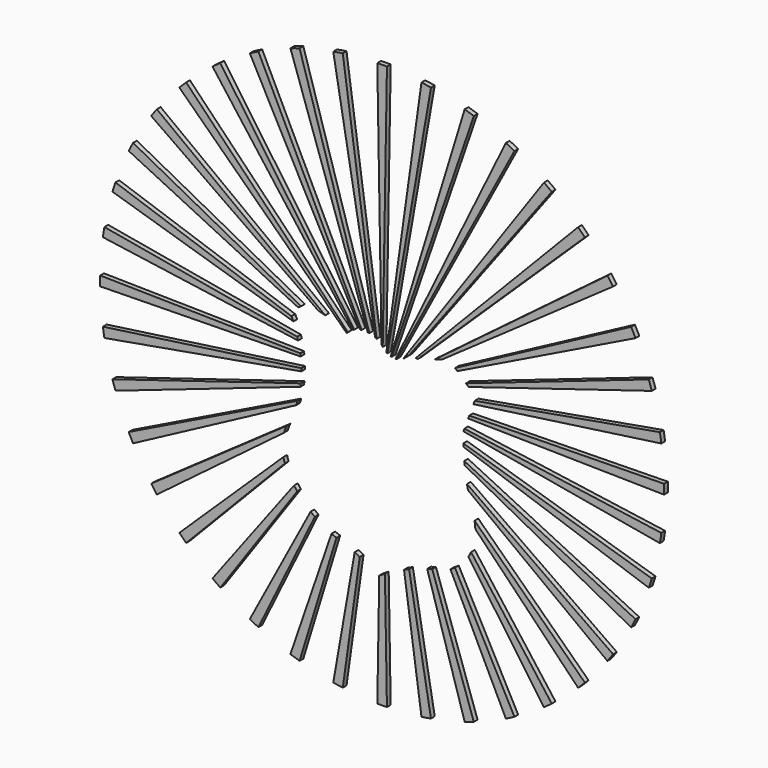
from build123d import *

# Parameters (mm, degrees)
F1_DEPTH = 0.65
F2_SCALE = 2.7


with BuildPart() as f1:
    # F0 (on Front) → F1 (new body)
    with BuildSketch(Plane.XZ):
        with BuildLine():
            Line((14.0996856562, 7.8006339884), (40.1003718647, 11.465391754))
            ThreePointArc((40.1003718647, 11.465391754), (40.0018864205, 12.1234734521), (39.8921932156, 12.7797800153))
            Line((39.8921932156, 12.7797800153), (14.2753890142, 8.2734041905))
            Line((14.2753890142, 8.2734041905), (14.0996856562, 7.8006339884))
        make_face()
    extrude(amount=F1_DEPTH)


with BuildPart() as f1b:
    # F0 (on Front) → F1, piece 2 (new body)
    with BuildSketch(Plane.XZ):
        with BuildLine():
            Line((13.419350539, 9.6801756283), (38.7727556348, 17.4425731134))
            ThreePointArc((38.7727556348, 17.4425731134), (38.5725360514, 18.077146216), (38.3615243857, 18.7082127585))
            Line((38.3615243857, 18.7082127585), (13.0601193568, 10.0075521461))
            Line((13.0601193568, 10.0075521461), (13.419350539, 9.6801756283))
        make_face()
    extrude(amount=F1_DEPTH)


with BuildPart() as f1c:
    # F0 (on Front) → F1, piece 3 (new body)
    with BuildSketch(Plane.XZ):
        with BuildLine():
            Line((11.8640080995, 11.097598773), (36.5264473952, 23.138480517))
            ThreePointArc((36.5264473952, 23.138480517), (36.2294237434, 23.7339197282), (35.9222894245, 24.3242072974))
            Line((35.9222894245, 24.3242072974), (11.5541847858, 11.3799486429))
            Line((11.5541847858, 11.3799486429), (11.8640080995, 11.097598773))
        make_face()
    extrude(amount=F1_DEPTH)


with BuildPart() as f1d:
    # F0 (on Front) → F1, piece 4 (new body)
    with BuildSketch(Plane.XZ):
        with BuildLine():
            Line((9.6875365964, 11.783341185), (33.4167587101, 28.4128618208))
            ThreePointArc((33.4167587101, 28.4128618208), (33.0302446977, 28.9545054513), (32.6345503919, 29.489479208))
            Line((32.6345503919, 29.489479208), (8.6803311777, 11.4536889214))
            Line((8.6803311777, 11.4536889214), (9.6875365964, 11.783341185))
        make_face()
    extrude(amount=F1_DEPTH)


with BuildPart() as f1e:
    # F0 (on Front) → F1, piece 5 (new body)
    with BuildSketch(Plane.XZ):
        with BuildLine():
            Line((6.4331524853, 10.823040759), (29.5202604351, 33.1358442526))
            ThreePointArc((29.5202604351, 33.1358442526), (29.0537733201, 33.6103552384), (28.5792623344, 34.0768423534))
            Line((28.5792623344, 34.0768423534), (6.1017375338, 10.8192968969))
            Line((6.1017375338, 10.8192968969), (6.4331524853, 10.823040759))
        make_face()
    extrude(amount=F1_DEPTH)


with BuildPart() as f1f:
    # F0 (on Front) → F1, piece 6 (new body)
    with BuildSketch(Plane.XZ):
        with BuildLine():
            Line((5.1551717195, 10.8086039218), (24.9328929258, 37.1911355959))
            ThreePointArc((24.9328929258, 37.1911355959), (24.3979213233, 37.5868282214), (23.8562799026, 37.9733406283))
            Line((23.8562799026, 37.9733406283), (4.370683766, 10.1686883555))
            ThreePointArc((4.370683766, 10.1686883555), (4.7232209064, 10.4533298944), (5.0065471561, 10.8069249695))
            Line((5.0065471561, 10.8069249695), (5.1187707299, 10.8081927143))
            Line((5.1187707299, 10.8081927143), (5.1551717195, 10.8086039218))
        make_face()
    extrude(amount=F1_DEPTH)


with BuildPart() as f1g:
    # F0 (on Front) → F1, piece 7 (new body)
    with BuildSketch(Plane.XZ):
        with BuildLine():
            Line((3.4985828485, 9.8517229411), (19.7676253791, 40.4788713427))
            ThreePointArc((19.7676253791, 40.4788713427), (19.17733781, 40.7860056616), (18.5818985987, 41.0830293135))
            Line((18.5818985987, 41.0830293135), (3.3267720116, 9.8370922299))
            ThreePointArc((3.3267720116, 9.8370922299), (3.4128275589, 9.8426445983), (3.4985828485, 9.8517229411))
        make_face()
    extrude(amount=F1_DEPTH)


with BuildPart() as f1h:
    # F0 (on Front) → F1, piece 8 (new body)
    with BuildSketch(Plane.XZ):
        with BuildLine():
            Line((2.791275687, 9.8823450197), (14.1516308402, 42.918106304))
            ThreePointArc((14.1516308402, 42.918106304), (13.5205642977, 43.1291179696), (12.8859911951, 43.329337553))
            Line((12.8859911951, 43.329337553), (2.655985343, 9.9162737412))
            ThreePointArc((2.655985343, 9.9162737412), (2.7233489395, 9.8981866017), (2.791275687, 9.8823450197))
        make_face()
    extrude(amount=F1_DEPTH)


with BuildPart() as f1i:
    # F0 (on Front) → F1, piece 9 (new body)
    with BuildSketch(Plane.XZ):
        with BuildLine():
            Line((2.1836739638, 10.116683625), (8.223198097, 44.4487751338))
            ThreePointArc((8.223198097, 44.4487751338), (7.5668915339, 44.5584683388), (6.9088098358, 44.656953783))
            Line((6.9088098358, 44.656953783), (2.0520581395, 10.1993211305))
            ThreePointArc((2.0520581395, 10.1993211305), (2.1171018718, 10.156785277), (2.1836739638, 10.116683625))
        make_face()
    extrude(amount=F1_DEPTH)


with BuildPart() as f1j:
    # F0 (on Front) → F1, piece 10 (new body)
    with BuildSketch(Plane.XZ):
        with BuildLine():
            Line((1.5425779768, 10.6901751083), (2.128304839, 45.0331876857))
            ThreePointArc((2.128304839, 45.0331876857), (1.4629187009, 45.0388614191), (0.7975325627, 45.0331876857))
            Line((0.7975325627, 45.0331876857), (1.3798589971, 10.8895529183))
            ThreePointArc((1.3798589971, 10.8895529183), (1.4215379159, 10.8485968834), (1.4625010782, 10.8069249695))
            ThreePointArc((1.4625010782, 10.8069249695), (1.5015560703, 10.7478755011), (1.5425779768, 10.6901751083))
        make_face()
    extrude(amount=F1_DEPTH)


with BuildPart() as f1k:
    # F0 (on Front) → F1, piece 11 (new body)
    with BuildSketch(Plane.XZ):
        with BuildLine():
            Line((0.7052964066, 11.3946715853), (-3.982972434, 44.656953783))
            ThreePointArc((-3.982972434, 44.656953783), (-4.6410541321, 44.5584683388), (-5.2973606953, 44.4487751338))
            Line((-5.2973606953, 44.4487751338), (0.4982535981, 11.5032059334))
            ThreePointArc((0.4982535981, 11.5032059334), (0.6027155377, 11.450732948), (0.7052964066, 11.3946715853))
        make_face()
    extrude(amount=F1_DEPTH)


with BuildPart() as f1l:
    # F0 (on Front) → F1, piece 12 (new body)
    with BuildSketch(Plane.XZ):
        with BuildLine():
            Line((-0.2976953227, 11.7699869402), (-9.9601537934, 43.329337553))
            ThreePointArc((-9.9601537934, 43.329337553), (-10.594726896, 43.1291179696), (-11.2257934384, 42.918106304))
            Line((-11.2257934384, 42.918106304), (-0.5276547295, 11.8080616085))
            ThreePointArc((-0.5276547295, 11.8080616085), (-0.4123460333, 11.7910112904), (-0.2976953227, 11.7699869402))
        make_face()
    extrude(amount=F1_DEPTH)


with BuildPart() as f1m:
    # F0 (on Front) → F1, piece 13 (new body)
    with BuildSketch(Plane.XZ):
        with BuildLine():
            Line((-1.3652721358, 11.8122728022), (-15.6560611969, 41.0830293135))
            ThreePointArc((-15.6560611969, 41.0830293135), (-16.2515004082, 40.7860056616), (-16.8417879773, 40.4788713427))
            Line((-16.8417879773, 40.4788713427), (-1.5952263604, 11.7765857364))
            ThreePointArc((-1.5952263604, 11.7765857364), (-1.4805571029, 11.7964129719), (-1.3652721358, 11.8122728022))
        make_face()
    extrude(amount=F1_DEPTH)


with BuildPart() as f1n:
    # F0 (on Front) → F1, piece 14 (new body)
    with BuildSketch(Plane.XZ):
        with BuildLine():
            Line((-2.3912446793, 11.5191359311), (-20.9304425008, 37.9733406283))
            ThreePointArc((-20.9304425008, 37.9733406283), (-21.4720861312, 37.586826616), (-22.007059888, 37.1911323101))
            Line((-22.007059888, 37.1911323101), (-2.5983724683, 11.4135009603))
            ThreePointArc((-2.5983724683, 11.4135009603), (-2.4957190615, 11.4681037191), (-2.3912446793, 11.5191359311))
        make_face()
    extrude(amount=F1_DEPTH)


with BuildPart() as f1o:
    # F0 (on Front) → F1, piece 15 (new body)
    with BuildSketch(Plane.XZ):
        with BuildLine():
            Line((-3.273840696, 10.9206362187), (-25.6534249326, 34.0768423534))
            ThreePointArc((-25.6534249326, 34.0768423534), (-26.1279359183, 33.6103552384), (-26.5944230334, 33.1358442526))
            Line((-26.5944230334, 33.1358442526), (-3.4375991948, 10.7556630289))
            ThreePointArc((-3.4375991948, 10.7556630289), (-3.3571415162, 10.8395607277), (-3.273840696, 10.9206362187))
        make_face()
    extrude(amount=F1_DEPTH)


with BuildPart() as f1p:
    # F0 (on Front) → F1, piece 16 (new body)
    with BuildSketch(Plane.XZ):
        with BuildLine():
            Line((-6.4095905739, 11.946929313), (-29.7087129901, 29.489479208))
            ThreePointArc((-29.7087129901, 29.489479208), (-30.104407296, 28.9545054513), (-30.4909213083, 28.4128618208))
            Line((-30.4909213083, 28.4128618208), (-7.3758312724, 12.2137270616))
            Line((-7.3758312724, 12.2137270616), (-6.4095905739, 11.946929313))
        make_face()
    extrude(amount=F1_DEPTH)


with BuildPart() as f1q:
    # F0 (on Front) → F1, piece 17 (new body)
    with BuildSketch(Plane.XZ):
        with BuildLine():
            Line((-9.7439662708, 11.9725618004), (-32.9964520227, 24.3242072974))
            ThreePointArc((-32.9964520227, 24.3242072974), (-33.3035863416, 23.7339197282), (-33.6006099934, 23.138480517))
            Line((-33.6006099934, 23.138480517), (-10.1638882825, 11.696027838))
            Line((-10.1638882825, 11.696027838), (-9.7439662708, 11.9725618004))
        make_face()
    extrude(amount=F1_DEPTH)


with BuildPart() as f1r:
    # F0 (on Front) → F1, piece 18 (new body)
    with BuildSketch(Plane.XZ):
        with BuildLine():
            Line((-11.0898364476, 10.336148733), (-35.4356869839, 18.7082127585))
            ThreePointArc((-35.4356869839, 18.7082127585), (-35.6466986496, 18.077146216), (-35.846918233, 17.4425731134))
            Line((-35.846918233, 17.4425731134), (-10.8184667626, 9.7796659806))
            ThreePointArc((-10.8184667626, 9.7796659806), (-10.9476069211, 10.0610988821), (-11.0898364476, 10.336148733))
        make_face()
    extrude(amount=F1_DEPTH)


with BuildPart() as f1s:
    # F0 (on Front) → F1, piece 19 (new body)
    with BuildSketch(Plane.XZ):
        with BuildLine():
            Line((-9.872146129, 6.2128223885), (-37.5507683657, 6.6848867573))
            ThreePointArc((-37.5507683657, 6.6848867573), (-37.5564420991, 6.0195006191), (-37.5507683657, 5.354114481))
            Line((-37.5507683657, 5.354114481), (-9.8197574693, 5.8270723487))
            ThreePointArc((-9.8197574693, 5.8270723487), (-9.8379869171, 5.9706077344), (-9.8576853839, 6.1139489012))
            ThreePointArc((-9.8576853839, 6.1139489012), (-9.8648283407, 6.1633984299), (-9.872146129, 6.2128223885))
        make_face()
    extrude(amount=F1_DEPTH)


with BuildPart() as f1t:
    # F0 (on Front) → F1, piece 20 (new body)
    with BuildSketch(Plane.XZ):
        with BuildLine():
            ThreePointArc((-37.1745344629, 0.5736094843), (-37.0760490187, -0.0844722138), (-36.9663558138, -0.740778777))
            Line((-36.9663558138, -0.740778777), (-9.7162625791, 4.0529168148))
            ThreePointArc((-9.7162625791, 4.0529168148), (-9.7165431301, 4.2296809017), (-9.7190352419, 4.4064276429))
            ThreePointArc((-9.7190352419, 4.4064276429), (-9.7194226929, 4.424868257), (-9.7198342189, 4.4433083497))
            Line((-9.7198342189, 4.4433083497), (-37.1745344629, 0.5736094843))
        make_face()
    extrude(amount=F1_DEPTH)


with BuildPart() as f1u:
    # F0 (on Front) → F1, piece 21 (new body)
    with BuildSketch(Plane.XZ):
        with BuildLine():
            ThreePointArc((-35.846918233, -5.4035718751), (-35.6466986496, -6.0381449777), (-35.4356869839, -6.6692115202))
            Line((-35.4356869839, -6.6692115202), (-9.8572714573, 2.1267076094))
            ThreePointArc((-9.8572714573, 2.1267076094), (-9.8367140484, 2.2767980553), (-9.8177672024, 2.4271003042))
            ThreePointArc((-9.8177672024, 2.4271003042), (-9.8092903216, 2.4989266119), (-9.801181251, 2.5707953739))
            Line((-9.801181251, 2.5707953739), (-35.846918233, -5.4035718751))
        make_face()
    extrude(amount=F1_DEPTH)


with BuildPart() as f1v:
    # F0 (on Front) → F1, piece 22 (new body)
    with BuildSketch(Plane.XZ):
        with BuildLine():
            ThreePointArc((-33.6006099934, -11.0994792787), (-33.3035863416, -11.69491849), (-32.9964520227, -12.2852060591))
            Line((-32.9964520227, -12.2852060591), (-10.4230779552, -0.2943025003))
            ThreePointArc((-10.4230779552, -0.2943025003), (-10.3818847157, -0.167001542), (-10.3418989304, -0.0393161711))
            ThreePointArc((-10.3418989304, -0.0393161711), (-10.2900857507, 0.1328120896), (-10.2404668118, 0.3055856542))
            Line((-10.2404668118, 0.3055856542), (-33.6006099934, -11.0994792787))
        make_face()
    extrude(amount=F1_DEPTH)


with BuildPart() as f1w:
    # F0 (on Front) → F1, piece 23 (new body)
    with BuildSketch(Plane.XZ):
        with BuildLine():
            ThreePointArc((-30.4909213083, -16.3738605826), (-30.104407296, -16.915504213), (-29.7087129901, -17.4504779697))
            Line((-29.7087129901, -17.4504779697), (-12.1121518011, -4.2015432192))
            ThreePointArc((-12.1121518011, -4.2015432192), (-11.9571086891, -3.7184800759), (-11.7634296193, -3.2495698659))
            Line((-11.7634296193, -3.2495698659), (-30.4909213083, -16.3738605826))
        make_face()
    extrude(amount=F1_DEPTH)


with BuildPart() as f1x:
    # F0 (on Front) → F1, piece 24 (new body)
    with BuildSketch(Plane.XZ):
        with BuildLine():
            ThreePointArc((-26.5944230334, -21.0968430143), (-26.1279359183, -21.5713540001), (-25.6534249326, -22.0378411151))
            Line((-25.6534249326, -22.0378411151), (-11.9975176895, -7.9080431826))
            ThreePointArc((-11.9975176895, -7.9080431826), (-12.1092170131, -7.5492433043), (-12.1991700888, -7.1843836933))
            Line((-12.1991700888, -7.1843836933), (-26.5944230334, -21.0968430143))
        make_face()
    extrude(amount=F1_DEPTH)


with BuildPart() as f1y:
    # F0 (on Front) → F1, piece 25 (new body)
    with BuildSketch(Plane.XZ):
        with BuildLine():
            ThreePointArc((-22.007059888, -25.1521310719), (-21.4720861312, -25.5478253777), (-20.9304425008, -25.93433939))
            Line((-20.9304425008, -25.93433939), (-10.2859047767, -10.7452906205))
            ThreePointArc((-10.2859047767, -10.7452906205), (-10.5090160887, -10.4588884784), (-10.7236490328, -10.1660787385))
            Line((-10.7236490328, -10.1660787385), (-22.007059888, -25.1521310719))
        make_face()
    extrude(amount=F1_DEPTH)


with BuildPart() as f1z:
    # F0 (on Front) → F1, piece 26 (new body)
    with BuildSketch(Plane.XZ):
        with BuildLine():
            ThreePointArc((-16.8417879773, -28.4398701044), (-16.2515004082, -28.7470044233), (-15.6560611969, -29.0440280752))
            Line((-15.6560611969, -29.0440280752), (-7.849521222, -13.0544749564))
            ThreePointArc((-7.849521222, -13.0544749564), (-8.1443068921, -12.8360707903), (-8.4325036722, -12.6090430671))
            Line((-8.4325036722, -12.6090430671), (-16.8417879773, -28.4398701044))
        make_face()
    extrude(amount=F1_DEPTH)


with BuildPart() as f1ba:
    # F0 (on Front) → F1, piece 27 (new body)
    with BuildSketch(Plane.XZ):
        with BuildLine():
            ThreePointArc((-11.2257934384, -30.8791050657), (-10.594726896, -31.0901167314), (-9.9601537934, -31.2903363147))
            Line((-9.9601537934, -31.2903363147), (-4.8605134183, -14.6339813006))
            ThreePointArc((-4.8605134183, -14.6339813006), (-5.2050617563, -14.5026025959), (-5.5455521217, -14.3610390681))
            Line((-5.5455521217, -14.3610390681), (-11.2257934384, -30.8791050657))
        make_face()
    extrude(amount=F1_DEPTH)


with BuildPart() as f1bb:
    # F0 (on Front) → F1, piece 28 (new body)
    with BuildSketch(Plane.XZ):
        with BuildLine():
            ThreePointArc((-5.2973606953, -32.4097738956), (-4.6410541321, -32.5194671005), (-3.982972434, -32.6179525447))
            Line((-3.982972434, -32.6179525447), (-1.6296826117, -15.9218557927))
            ThreePointArc((-1.6296826117, -15.9218557927), (-1.9795672171, -15.7392169774), (-2.3343362696, -15.5662571744))
            Line((-2.3343362696, -15.5662571744), (-5.2973606953, -32.4097738956))
        make_face()
    extrude(amount=F1_DEPTH)


with BuildPart() as f1bc:
    # F0 (on Front) → F1, piece 29 (new body)
    with BuildSketch(Plane.XZ):
        with BuildLine():
            ThreePointArc((0.7975325627, -32.9941864474), (1.4629187009, -32.9998601809), (2.128304839, -32.9941864474))
            Line((2.128304839, -32.9941864474), (1.8527404782, -16.8369791878))
            ThreePointArc((1.8527404782, -16.8369791878), (1.4566265852, -17.0738161076), (1.0648958416, -17.3178344824))
            Line((1.0648958416, -17.3178344824), (0.7975325627, -32.9941864474))
        make_face()
    extrude(amount=F1_DEPTH)


with BuildPart() as f1bd:
    # F0 (on Front) → F1, piece 30 (new body)
    with BuildSketch(Plane.XZ):
        with BuildLine():
            ThreePointArc((6.9088098358, -32.6179525447), (7.5668915339, -32.5194671005), (8.223198097, -32.4097738956))
            Line((8.223198097, -32.4097738956), (5.1952003902, -15.196912076))
            ThreePointArc((5.1952003902, -15.196912076), (4.8438949207, -15.3413444043), (4.4947959257, -15.4910311507))
            Line((4.4947959257, -15.4910311507), (6.9088098358, -32.6179525447))
        make_face()
    extrude(amount=F1_DEPTH)


with BuildPart() as f1be:
    # F0 (on Front) → F1, piece 31 (new body)
    with BuildSketch(Plane.XZ):
        with BuildLine():
            ThreePointArc((12.8859911951, -31.2903363147), (13.5205642977, -31.0901167314), (14.1516308402, -30.8791050657))
            Line((14.1516308402, -30.8791050657), (8.3987089673, -14.1496849801))
            ThreePointArc((8.3987089673, -14.1496849801), (8.0467485682, -14.2420047436), (7.6961513728, -14.3393734646))
            Line((7.6961513728, -14.3393734646), (12.8859911951, -31.2903363147))
        make_face()
    extrude(amount=F1_DEPTH)


with BuildPart() as f1bf:
    # F0 (on Front) → F1, piece 32 (new body)
    with BuildSketch(Plane.XZ):
        with BuildLine():
            ThreePointArc((18.5818985987, -29.0440280752), (19.17733781, -28.7470044233), (19.7676253791, -28.4398701044))
            Line((19.7676253791, -28.4398701044), (11.5427004309, -12.956107215))
            ThreePointArc((11.5427004309, -12.956107215), (11.2336071055, -13.1558780051), (10.9137022081, -13.3378337938))
            Line((10.9137022081, -13.3378337938), (18.5818985987, -29.0440280752))
        make_face()
    extrude(amount=F1_DEPTH)


with BuildPart() as f1bg:
    # F0 (on Front) → F1, piece 33 (new body)
    with BuildSketch(Plane.XZ):
        with BuildLine():
            ThreePointArc((23.8562799026, -25.93433939), (24.397923533, -25.5478253777), (24.9328972898, -25.1521310719))
            Line((24.9328972898, -25.1521310719), (13.7647538336, -10.3191710344))
            ThreePointArc((13.7647538336, -10.3191710344), (13.5906105615, -10.6690653912), (13.3957520148, -11.0078604427))
            Line((13.3957520148, -11.0078604427), (23.8562799026, -25.93433939))
        make_face()
    extrude(amount=F1_DEPTH)


with BuildPart() as f1bh:
    # F0 (on Front) → F1, piece 34 (new body)
    with BuildSketch(Plane.XZ):
        with BuildLine():
            ThreePointArc((28.5792623344, -22.0378411151), (29.0537733201, -21.5713540001), (29.5202604351, -21.0968430143))
            Line((29.5202604351, -21.0968430143), (14.2532334984, -6.3418475982))
            ThreePointArc((14.2532334984, -6.3418475982), (14.2729801585, -6.4807999587), (14.2870222877, -6.620444177))
            ThreePointArc((14.2870222877, -6.620444177), (14.3305597134, -6.9693673441), (14.355163816, -7.3201343923))
            Line((14.355163816, -7.3201343923), (28.5792623344, -22.0378411151))
        make_face()
    extrude(amount=F1_DEPTH)


with BuildPart() as f1bi:
    # F0 (on Front) → F1, piece 35 (new body)
    with BuildSketch(Plane.XZ):
        with BuildLine():
            ThreePointArc((32.6345503919, -17.4504779697), (33.0302446977, -16.915504213), (33.4167587101, -16.3738605826))
            Line((33.4167587101, -16.3738605826), (13.2008662847, -2.2064935004))
            ThreePointArc((13.2008662847, -2.2064935004), (13.2521455333, -2.4735787384), (13.3058488534, -2.7401871388))
            ThreePointArc((13.3058488534, -2.7401871388), (13.3252466031, -2.8335252033), (13.3449414671, -2.9268010272))
            Line((13.3449414671, -2.9268010272), (32.6345503919, -17.4504779697))
        make_face()
    extrude(amount=F1_DEPTH)


with BuildPart() as f1bj:
    # F0 (on Front) → F1, piece 36 (new body)
    with BuildSketch(Plane.XZ):
        with BuildLine():
            ThreePointArc((35.9222894245, -12.2852060591), (36.2294237434, -11.69491849), (36.5264473952, -11.0994792787))
            Line((36.5264473952, -11.0994792787), (12.8234366213, 0.4729830509))
            ThreePointArc((12.8234366213, 0.4729830509), (12.8248529161, 0.4581166506), (12.8262766262, 0.4432509586))
            ThreePointArc((12.8262766262, 0.4432509586), (12.8506686935, 0.1996968117), (12.8770511831, -0.0436497718))
            Line((12.8770511831, -0.0436497718), (35.9222894245, -12.2852060591))
        make_face()
    extrude(amount=F1_DEPTH)


with BuildPart() as f1bk:
    # F0 (on Front) → F1, piece 37 (new body)
    with BuildSketch(Plane.XZ):
        with BuildLine():
            ThreePointArc((38.3615243857, -6.6692115202), (38.5725360514, -6.0381449777), (38.7727556348, -5.4035718751))
            Line((38.7727556348, -5.4035718751), (12.6979846055, 2.5796846657))
            ThreePointArc((12.6979846055, 2.5796846657), (12.7035429119, 2.3782778309), (12.7104565306, 2.1769129637))
            ThreePointArc((12.7104565306, 2.1769129637), (12.7109410518, 2.1641344873), (12.711431031, 2.151356219))
            Line((12.711431031, 2.151356219), (38.3615243857, -6.6692115202))
        make_face()
    extrude(amount=F1_DEPTH)


with BuildPart() as f1bl:
    # F0 (on Front) → F1, piece 38 (new body)
    with BuildSketch(Plane.XZ):
        with BuildLine():
            ThreePointArc((39.8921932156, -0.740778777), (40.0018864205, -0.0844722138), (40.1003718647, 0.5736094843))
            Line((40.1003718647, 0.5736094843), (12.8416800551, 4.4156812545))
            Line((12.8416800551, 4.4156812545), (12.7028858783, 4.0422236738))
            Line((12.7028858783, 4.0422236738), (39.8921932156, -0.740778777))
        make_face()
    extrude(amount=F1_DEPTH)


with BuildPart() as f1bm:
    # F0 (on Front) → F1, piece 39 (new body)
    with BuildSketch(Plane.XZ):
        with BuildLine():
            ThreePointArc((40.4766057675, 5.354114481), (40.4808610418, 5.6867954553), (40.4822795009, 6.0195006191))
            ThreePointArc((40.4822795009, 6.0195006191), (40.4808610418, 6.3522057829), (40.4766057675, 6.6848867573))
            Line((40.4766057675, 6.6848867573), (13.5141203784, 6.2250362439))
            Line((13.5141203784, 6.2250362439), (13.3623094698, 5.8165541594))
            Line((13.3623094698, 5.8165541594), (40.4766057675, 5.354114481))
        make_face()
    extrude(amount=F1_DEPTH)


with BuildPart() as f1bn:
    # F0 (on Front) → F1, piece 40 (new body)
    with BuildSketch(Plane.XZ):
        with BuildLine():
            Line((-10.2845456806, 8.0860538502), (-36.9663558138, 12.7797800153))
            ThreePointArc((-36.9663558138, 12.7797800153), (-37.0760490187, 12.1234734521), (-37.1745344629, 11.465391754))
            Line((-37.1745344629, 11.465391754), (-10.1667542002, 7.6586855904))
            ThreePointArc((-10.1667542002, 7.6586855904), (-10.223973594, 7.8728317558), (-10.2845456806, 8.0860538502))
        make_face()
    extrude(amount=F1_DEPTH)


with BuildPart() as f1b_1:
    # F2: moved
    add(f1b.part.scale(F2_SCALE))


with BuildPart() as f1o_1:
    # F2: moved
    add(f1o.part.scale(F2_SCALE))


with BuildPart() as f1q_1:
    # F2: moved
    add(f1q.part.scale(F2_SCALE))


with BuildPart() as f1i_1:
    # F2: moved
    add(f1i.part.scale(F2_SCALE))


with BuildPart() as f1_1:
    # F2: moved
    add(f1.part.scale(F2_SCALE))


with BuildPart() as f1h_1:
    # F2: moved
    add(f1h.part.scale(F2_SCALE))


with BuildPart() as f1r_1:
    # F2: moved
    add(f1r.part.scale(F2_SCALE))


with BuildPart() as f1p_1:
    # F2: moved
    add(f1p.part.scale(F2_SCALE))


with BuildPart() as f1bn_1:
    # F2: moved
    add(f1bn.part.scale(F2_SCALE))


with BuildPart() as f1s_1:
    # F2: moved
    add(f1s.part.scale(F2_SCALE))


with BuildPart() as f1t_1:
    # F2: moved
    add(f1t.part.scale(F2_SCALE))


with BuildPart() as f1u_1:
    # F2: moved
    add(f1u.part.scale(F2_SCALE))


with BuildPart() as f1v_1:
    # F2: moved
    add(f1v.part.scale(F2_SCALE))


with BuildPart() as f1w_1:
    # F2: moved
    add(f1w.part.scale(F2_SCALE))


with BuildPart() as f1x_1:
    # F2: moved
    add(f1x.part.scale(F2_SCALE))


with BuildPart() as f1y_1:
    # F2: moved
    add(f1y.part.scale(F2_SCALE))


with BuildPart() as f1z_1:
    # F2: moved
    add(f1z.part.scale(F2_SCALE))


with BuildPart() as f1ba_1:
    # F2: moved
    add(f1ba.part.scale(F2_SCALE))


with BuildPart() as f1bb_1:
    # F2: moved
    add(f1bb.part.scale(F2_SCALE))


with BuildPart() as f1bc_1:
    # F2: moved
    add(f1bc.part.scale(F2_SCALE))


with BuildPart() as f1bd_1:
    # F2: moved
    add(f1bd.part.scale(F2_SCALE))


with BuildPart() as f1be_1:
    # F2: moved
    add(f1be.part.scale(F2_SCALE))


with BuildPart() as f1bf_1:
    # F2: moved
    add(f1bf.part.scale(F2_SCALE))


with BuildPart() as f1bg_1:
    # F2: moved
    add(f1bg.part.scale(F2_SCALE))


with BuildPart() as f1bh_1:
    # F2: moved
    add(f1bh.part.scale(F2_SCALE))


with BuildPart() as f1bi_1:
    # F2: moved
    add(f1bi.part.scale(F2_SCALE))


with BuildPart() as f1bj_1:
    # F2: moved
    add(f1bj.part.scale(F2_SCALE))


with BuildPart() as f1bk_1:
    # F2: moved
    add(f1bk.part.scale(F2_SCALE))


with BuildPart() as f1bl_1:
    # F2: moved
    add(f1bl.part.scale(F2_SCALE))


with BuildPart() as f1bm_1:
    # F2: moved
    add(f1bm.part.scale(F2_SCALE))


with BuildPart() as f1d_1:
    # F2: moved
    add(f1d.part.scale(F2_SCALE))


with BuildPart() as f1e_1:
    # F2: moved
    add(f1e.part.scale(F2_SCALE))


with BuildPart() as f1g_1:
    # F2: moved
    add(f1g.part.scale(F2_SCALE))


with BuildPart() as f1c_1:
    # F2: moved
    add(f1c.part.scale(F2_SCALE))


with BuildPart() as f1m_1:
    # F2: moved
    add(f1m.part.scale(F2_SCALE))


with BuildPart() as f1j_1:
    # F2: moved
    add(f1j.part.scale(F2_SCALE))


with BuildPart() as f1k_1:
    # F2: moved
    add(f1k.part.scale(F2_SCALE))


with BuildPart() as f1n_1:
    # F2: moved
    add(f1n.part.scale(F2_SCALE))


with BuildPart() as f1l_1:
    # F2: moved
    add(f1l.part.scale(F2_SCALE))


with BuildPart() as f1f_1:
    # F2: moved
    add(f1f.part.scale(F2_SCALE))


solid = Compound([f1b_1.part, f1o_1.part, f1q_1.part, f1i_1.part, f1_1.part, f1h_1.part, f1r_1.part, f1p_1.part, f1bn_1.part, f1s_1.part, f1t_1.part, f1u_1.part, f1v_1.part, f1w_1.part, f1x_1.part, f1y_1.part, f1z_1.part, f1ba_1.part, f1bb_1.part, f1bc_1.part, f1bd_1.part, f1be_1.part, f1bf_1.part, f1bg_1.part, f1bh_1.part, f1bi_1.part, f1bj_1.part, f1bk_1.part, f1bl_1.part, f1bm_1.part, f1d_1.part, f1e_1.part, f1g_1.part, f1c_1.part, f1m_1.part, f1j_1.part, f1k_1.part, f1n_1.part, f1l_1.part, f1f_1.part])
